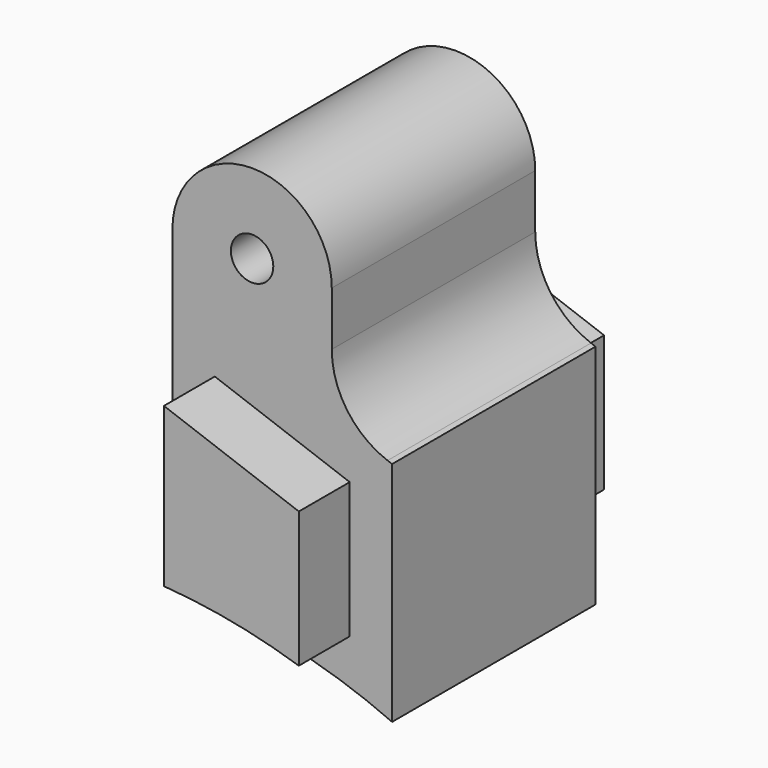
from build123d import *

# Parameters (mm, degrees)
F0_R     = 1
F1_DEPTH = 6
F2_DEPTH = 9
F3_R     = 4


with BuildPart() as f1:
    # F0 (on Front) → F1 (new body, symmetric)
    with BuildSketch(Plane.XZ):
        with BuildLine():
            Line((0, 37.671893), (0, 25.4))
            ThreePointArc((0, 25.4), (5.298719, 24.841167), (10.364281, 23.189258))
            Line((10.364281, 23.189258), (10.364281, 25.364181))
            Line((10.364281, 25.364181), (10.364281, 33.899603))
            Line((10.364281, 33.899603), (7.517861, 34.935616))
            Line((7.517861, 34.935616), (0, 37.671893))
        make_face()
        with BuildLine():
            Line((2, 27.32691), (2, 34.815597))
            Line((2, 34.815597), (8.364471, 32.499119))
            Line((8.364471, 32.499119), (8.364471, 26.092061))
            ThreePointArc((8.364471, 26.092061), (5.218886, 26.898387), (2, 27.32691))
        make_face(mode=Mode.SUBTRACT)
        with BuildLine():
            Line((0, 40.284664), (0, 37.671893))
            Line((0, 37.671893), (7.517861, 34.935616))
            Line((7.517861, 34.935616), (7.517861, 40.284664))
            ThreePointArc((7.517861, 40.284664), (3.75893, 44.043594), (0, 40.284664))
        make_face()
        with Locations((3.75893, 40.284664)):
            Circle(F0_R, mode=Mode.SUBTRACT)
    extrude(amount=F1_DEPTH, both=True)

    # F0 (on Front) → F2 (join, symmetric)
    with BuildSketch(Plane.XZ):
        with BuildLine():
            Line((8.364471, 32.499119), (2, 34.815597))
            Line((2, 34.815597), (2, 27.32691))
            ThreePointArc((2, 27.32691), (5.218886, 26.898387), (8.364471, 26.092061))
            Line((8.364471, 26.092061), (8.364471, 32.499119))
        make_face()
    extrude(amount=F2_DEPTH, both=True)

    # F3
    f3_edges = [f1.edges().sort_by_distance(p)[0] for p in [
        (7.517861, 0, 34.935616),
    ]]
    fillet(f3_edges, radius=F3_R)


solid = f1.part
